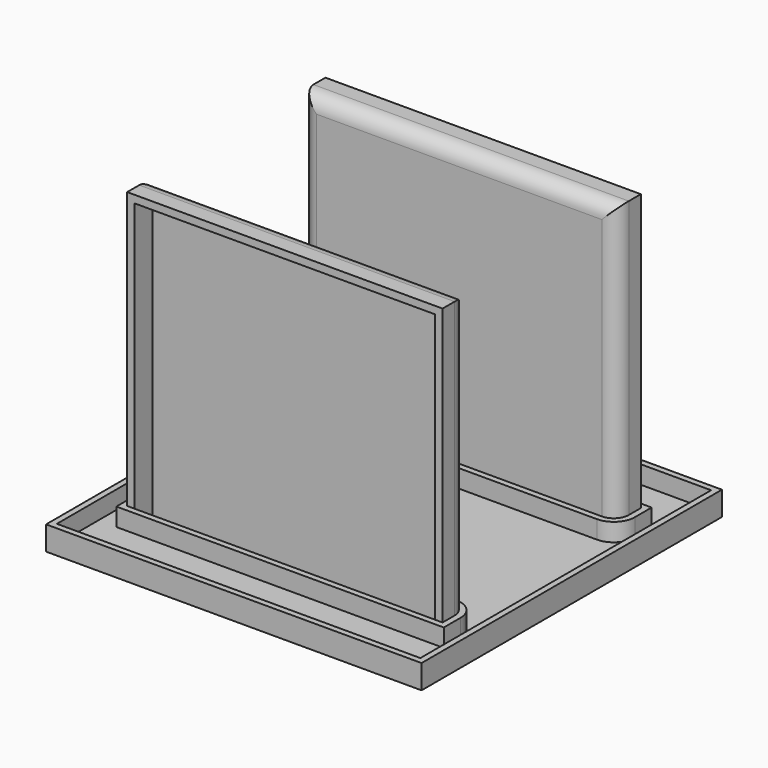
from build123d import *

# Parameters (mm, degrees)
F0_W     = 125
F0_H     = 125
F1_DEPTH = 8
F2_DEPTH = 100
F3_T     = -2.5
F3_2_T   = -2.5
F4_R     = 5
F4_2_R   = 5
F5_R     = 5
F6_T     = -2


with BuildPart() as f1:
    # F0 (on Top) → F1 (new body)
    with BuildSketch(Plane.XY):
        Rectangle(F0_W, F0_H)
        Polygon((-52.5, -31.25), (0, -31.25), (52.5, -31.25), (52.5, -41.25), (0, -41.25), (-52.5, -41.25), align=None, mode=Mode.SUBTRACT)
        Polygon((52.5, 31.25), (0, 31.25), (-52.5, 31.25), (-52.5, 41.25), (0, 41.25), (52.5, 41.25), align=None, mode=Mode.SUBTRACT)
    extrude(amount=F1_DEPTH)

    # F5
    f5_edges = [f1.edges().sort_by_distance(p)[0] for p in [
        (52.5, 31.25, 4),
        (-52.5, 31.25, 4),
        (-52.5, -31.25, 4),
        (52.5, -31.25, 4),
    ]]
    fillet(f5_edges, radius=F5_R)

    # F6
    f6_openings = [f1.faces().sort_by_distance(p)[0] for p in [
        (0, 0, 8),
    ]]
    offset(amount=F6_T, openings=f6_openings, kind=Kind.INTERSECTION)


with BuildPart() as f2:
    # F0 (on Top) → F2 (new body)
    with BuildSketch(Plane.XY):
        Polygon((52.5, -31.25), (0, -31.25), (-52.5, -31.25), (-52.5, -41.25), (0, -41.25), (52.5, -41.25), align=None)
    extrude(amount=F2_DEPTH)

    # F3#2
    f3_2_openings = [f2.faces().sort_by_distance(p)[0] for p in [
        (0, -41.25, 50),
    ]]
    offset(amount=F3_2_T, openings=f3_2_openings)

    # F4#2
    f4_2_edges = [f2.edges().sort_by_distance(p)[0] for p in [
        (-52.5, -31.25, 50),
        (0, -31.25, 100),
        (52.5, -31.25, 50),
    ]]
    fillet(f4_2_edges, radius=F4_2_R)


with BuildPart() as f2b:
    # F0 (on Top) → F2, piece 2 (new body)
    with BuildSketch(Plane.XY):
        Polygon((-52.5, 31.25), (0, 31.25), (52.5, 31.25), (52.5, 41.25), (0, 41.25), (-52.5, 41.25), align=None)
    extrude(amount=F2_DEPTH)

    # F3
    f3_openings = [f2b.faces().sort_by_distance(p)[0] for p in [
        (0, 41.25, 50),
    ]]
    offset(amount=F3_T, openings=f3_openings)

    # F4
    f4_edges = [f2b.edges().sort_by_distance(p)[0] for p in [
        (-52.5, 31.25, 50),
        (0, 31.25, 100),
        (52.5, 31.25, 50),
    ]]
    fillet(f4_edges, radius=F4_R)


solid = Compound([f1.part, f2.part, f2b.part])
